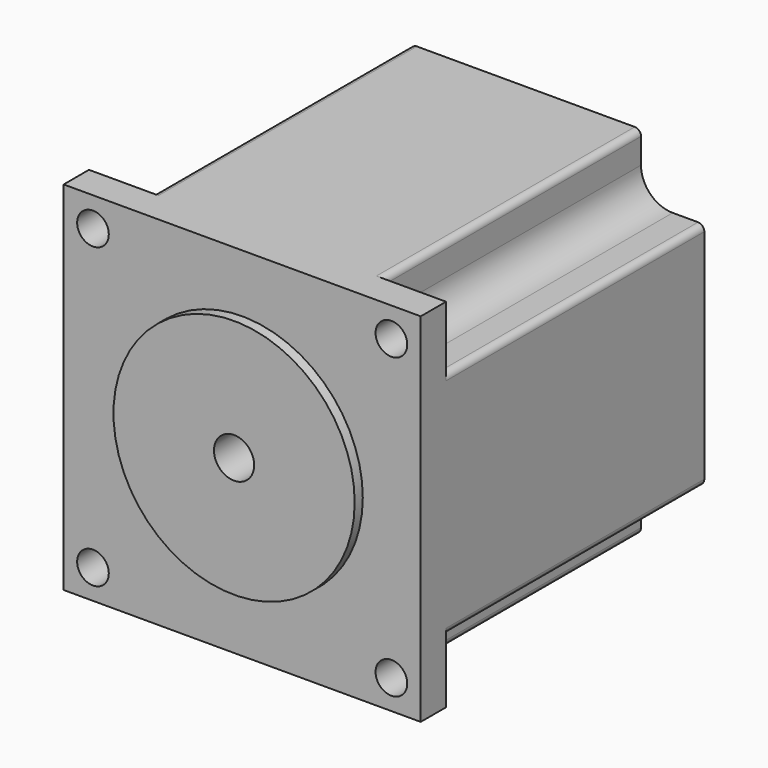
from build123d import *

# Parameters (mm, degrees)
F0_W     = 56.4
F0_H     = 56.4
F0_R     = 2.5
F1_DEPTH = 5
F3_DEPTH = 51
F4_R     = 5
F5_R     = 1
F6_R     = 19.05
F7_DEPTH = 1.6
F8_R     = 3.175
F9_DEPTH = 25


with BuildPart() as f1:
    # F0 (on Front) → F1 (new body)
    with BuildSketch(Plane.XZ):
        Rectangle(F0_W, F0_H)
        with Locations((-23.57, -23.57)):
            Circle(F0_R, mode=Mode.SUBTRACT)
        with Locations((23.57, -23.57)):
            Circle(F0_R, mode=Mode.SUBTRACT)
        with Locations((-23.57, 23.57)):
            Circle(F0_R, mode=Mode.SUBTRACT)
        with Locations((23.57, 23.57)):
            Circle(F0_R, mode=Mode.SUBTRACT)
    extrude(amount=F1_DEPTH)

    # F2 (on face) → F3 (join)
    with BuildSketch(Plane(origin=(0, 0, 0), x_dir=(-1, 0, 0), z_dir=(0, 1, 0))):
        Polygon((18.2, 18.2), (18.2, 28.2), (0, 28.2), (-18.2, 28.2), (-18.2, 18.2), (-28.2, 18.2), (-28.2, 0), (-28.2, -18.2), (-18.2, -18.2), (-18.2, -28.2), (0, -28.2), (18.2, -28.2), (18.2, -18.2), (28.2, -18.2), (28.2, 0), (28.2, 18.2), align=None)
    extrude(amount=F3_DEPTH)

    # F4
    f4_edges = [f1.edges().sort_by_distance(p)[0] for p in [
        (18.2, 25.5, 18.2),
        (18.2, 25.5, -18.2),
        (-18.2, 25.5, -18.2),
        (-18.2, 25.5, 18.2),
    ]]
    fillet(f4_edges, radius=F4_R)

    # F5
    f5_edges = [f1.edges().sort_by_distance(p)[0] for p in [
        (28.2, 25.5, 18.2),
        (18.2, 25.5, 28.2),
        (-18.2, 25.5, 28.2),
        (28.2, 25.5, -18.2),
        (18.2, 25.5, -28.2),
        (-18.2, 25.5, -28.2),
        (-28.2, 25.5, -18.2),
        (-28.2, 25.5, 18.2),
    ]]
    fillet(f5_edges, radius=F5_R)

    # F6 (on face) → F7 (join)
    with BuildSketch(Plane.XZ.offset(5)):
        Circle(F6_R)
    extrude(amount=F7_DEPTH)

    # F8 (on face) → F9 (cut)
    with BuildSketch(Plane.XZ.offset(6.6)):
        Circle(F8_R)
    extrude(amount=-F9_DEPTH, mode=Mode.SUBTRACT)


solid = f1.part
